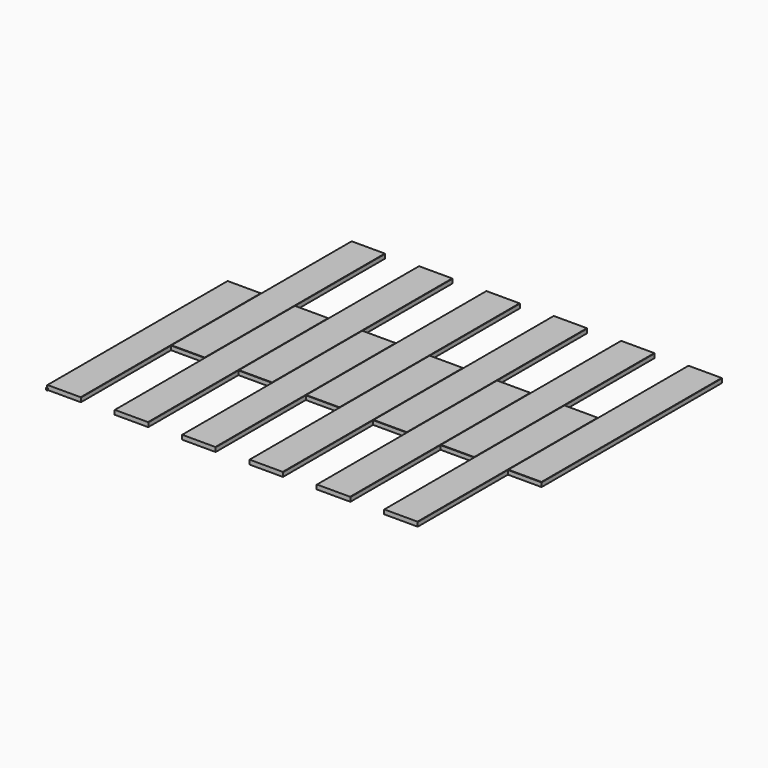
from build123d import *

# Parameters (mm, degrees)
F0_R     = 5
F1_DEPTH = 10
F3_DEPTH = 25
F5_DEPTH = 1927.301
F6_SIZE  = 1.5


with BuildPart() as f1:
    # F0 (on Top) → F1 (new body)
    with BuildSketch(Plane.XY):
        Circle(F0_R)
    extrude(amount=F1_DEPTH)

    # F2 (on Top) → F3 (join)
    with BuildSketch(Plane.XY):
        Polygon((0, 1284.9), (0, 0), (192, 0), (192, 642.4), (192, 1284.9), align=None)
        Polygon((192, 1284.9), (192, 642.4), (384, 642.4), (384, 1284.9), (384, 1927.3), (192, 1927.3), align=None)
        Polygon((384, 1284.9), (384, 642.4), (384, 0), (576, 0), (576, 642.4), (576, 1284.9), align=None)
        Polygon((576, 1927.3), (576, 1284.9), (576, 642.4), (768, 642.4), (768, 1284.9), (768, 1927.3), align=None)
        Polygon((768, 1284.9), (768, 642.4), (768, 0), (960, 0), (960, 642.4), (960, 1284.9), align=None)
        Polygon((960, 1927.3), (960, 1284.9), (960, 642.4), (1152, 642.4), (1152, 1284.9), (1152, 1927.3), align=None)
        Polygon((1152, 1284.9), (1152, 642.4), (1152, 0), (1344, 0), (1344, 642.4), (1344, 1284.9), align=None)
        Polygon((1344, 1927.3), (1344, 1284.9), (1344, 642.4), (1536, 642.4), (1536, 1284.9), (1536, 1927.3), align=None)
        Polygon((1536, 1284.9), (1536, 642.4), (1536, 0), (1728, 0), (1728, 642.4), (1728, 1284.9), align=None)
        Polygon((1728, 1927.3), (1728, 1284.9), (1728, 642.4), (1920, 642.4), (1920, 1284.9), (1920, 1927.3), align=None)
        Polygon((1920, 1284.9), (1920, 642.4), (1920, 0), (2112, 0), (2112, 642.4), (2112, 1284.9), align=None)
        Polygon((2112, 1927.3), (2112, 1284.9), (2112, 642.4), (2304, 642.4), (2304, 1927.3), align=None)
    extrude(amount=F3_DEPTH)

    # F4 (on face) → F5 (cut, through all)
    with BuildSketch(Plane.XZ):
        Polygon((-1.5, 25), (0, 23.5), (1.5, 25), align=None)
        Polygon((192, 23.5), (193.5, 25), (190.5, 25), align=None)
        Polygon((384, 23.5), (385.5, 25), (382.5, 25), align=None)
        Polygon((576, 23.5), (577.5, 25), (574.5, 25), align=None)
        Polygon((768, 23.5), (769.5, 25), (766.5, 25), align=None)
        Polygon((960, 23.5), (961.5, 25), (958.5, 25), align=None)
        Polygon((1152, 23.5), (1153.5, 25), (1150.5, 25), align=None)
        Polygon((1344, 23.5), (1345.5, 25), (1342.5, 25), align=None)
        Polygon((1536, 23.5), (1537.5, 25), (1534.5, 25), align=None)
        Polygon((1728, 23.5), (1729.5, 25), (1726.5, 25), align=None)
        Polygon((1920, 23.5), (1921.5, 25), (1918.5, 25), align=None)
        Polygon((2112, 23.5), (2113.5, 25), (2110.5, 25), align=None)
        Polygon((2304, 23.5), (2305.5, 25), (2302.5, 25), align=None)
    extrude(amount=-F5_DEPTH, mode=Mode.SUBTRACT)

    # F6
    f6_edges = [f1.edges().sort_by_distance(p)[0] for p in [
        (288, 642.4, 25),
        (672, 642.4, 25),
        (1056, 642.4, 25),
        (1440, 642.4, 25),
        (1824, 642.4, 25),
        (2208, 642.4, 25),
        (96, 1284.9, 25),
        (480, 1284.9, 25),
        (864, 1284.9, 25),
        (1248, 1284.9, 25),
        (1632, 1284.9, 25),
        (2016, 1284.9, 25),
    ]]
    chamfer(f6_edges, length=F6_SIZE)


solid = f1.part
